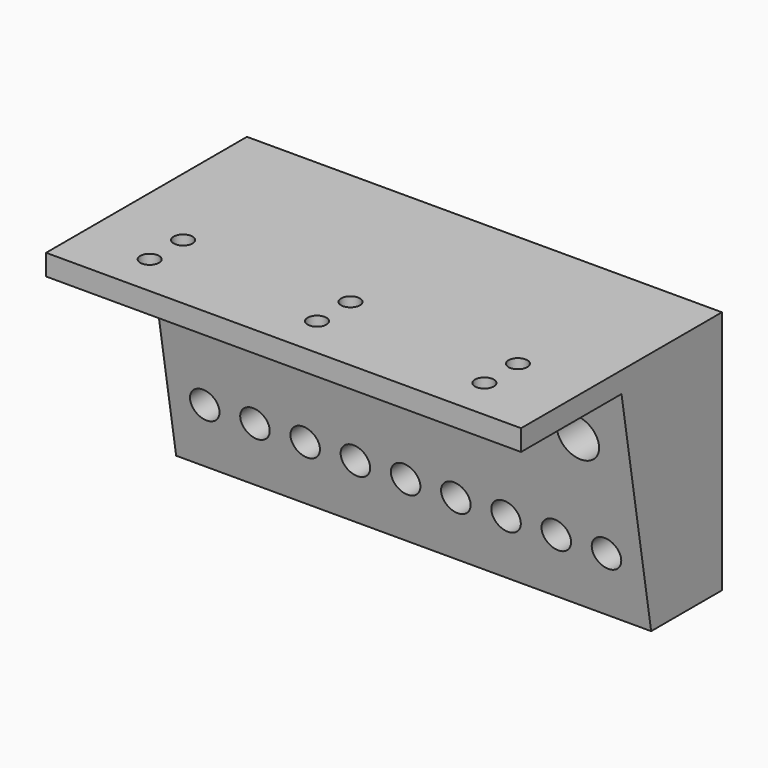
from build123d import *

# Parameters (mm, degrees)
F1_DEPTH = 25
F2_W     = 113.5
F2_H     = 53.5
F3_DEPTH = 5
F5_DEPTH = 133.9
F6_W     = 113.5
F6_H     = 60
F7_DEPTH = 5
F9_DEPTH = 25


with BuildPart() as f1:
    # F0 (on Front) → F1 (new body)
    with BuildSketch(Plane.XZ):
        with BuildLine():
            Line((30.7684078276, 51.75), (-82.7315921724, 51.75))
            Line((-82.7315921724, 51.75), (-82.7315921724, 37.7107225358))
            Line((-82.7315921724, 37.7107225358), (-75.4815921724, 37.7107225358))
            ThreePointArc((-75.4815921724, 37.7107225358), (-70.4815921724, 42.7107225358), (-65.4815921724, 37.7107225358))
            Line((-65.4815921724, 37.7107225358), (-60.4815921724, 37.7107225358))
            ThreePointArc((-60.4815921724, 37.7107225358), (-55.4815921724, 42.7107225358), (-50.4815921724, 37.7107225358))
            Line((-50.4815921724, 37.7107225358), (-46.4815921724, 37.7107225358))
            ThreePointArc((-46.4815921724, 37.7107225358), (-41.4815921724, 42.7107225358), (-36.4815921724, 37.7107225358))
            Line((-36.4815921724, 37.7107225358), (-31.4815921724, 37.7107225358))
            ThreePointArc((-31.4815921724, 37.7107225358), (-26.4815921724, 42.7107225358), (-21.4815921724, 37.7107225358))
            Line((-21.4815921724, 37.7107225358), (-16.4815921724, 37.7107225358))
            ThreePointArc((-16.4815921724, 37.7107225358), (-11.4815921724, 42.7107225358), (-6.4815921724, 37.7107225358))
            Line((-6.4815921724, 37.7107225358), (-1.4815921724, 37.7107225358))
            ThreePointArc((-1.4815921724, 37.7107225358), (3.5184078276, 42.7107225358), (8.5184078276, 37.7107225358))
            Line((8.5184078276, 37.7107225358), (13.5184078276, 37.7107225358))
            ThreePointArc((13.5184078276, 37.7107225358), (18.5184078276, 42.7107225358), (23.5184078276, 37.7107225358))
            Line((23.5184078276, 37.7107225358), (30.7684078276, 37.7107225358))
            Line((30.7684078276, 37.7107225358), (30.7684078276, 51.75))
        make_face()
        with BuildLine():
            Line((-77.4815921724, 12.7484267578), (-82.7315921724, 12.7484267578))
            Line((-82.7315921724, 12.7484267578), (-82.7315921724, -1.75))
            Line((-82.7315921724, -1.75), (30.7684078276, -1.75))
            Line((30.7684078276, -1.75), (30.7684078276, 12.7484267578))
            Line((30.7684078276, 12.7484267578), (25.5184078276, 12.7484267578))
            ThreePointArc((25.5184078276, 12.7484267578), (22.0184078276, 9.2484267578), (18.5184078276, 12.7484267578))
            Line((18.5184078276, 12.7484267578), (13.5184078276, 12.7484267578))
            ThreePointArc((13.5184078276, 12.7484267578), (10.0184078276, 9.2484267578), (6.5184078276, 12.7484267578))
            Line((6.5184078276, 12.7484267578), (1.5184078276, 12.7484267578))
            ThreePointArc((1.5184078276, 12.7484267578), (-1.9815921724, 9.2484267578), (-5.4815921724, 12.7484267578))
            Line((-5.4815921724, 12.7484267578), (-10.4815921724, 12.7484267578))
            ThreePointArc((-10.4815921724, 12.7484267578), (-13.9815921724, 9.2484267578), (-17.4815921724, 12.7484267578))
            Line((-17.4815921724, 12.7484267578), (-22.4815921724, 12.7484267578))
            ThreePointArc((-22.4815921724, 12.7484267578), (-25.9815921724, 9.2484267578), (-29.4815921724, 12.7484267578))
            Line((-29.4815921724, 12.7484267578), (-34.4815921724, 12.7484267578))
            ThreePointArc((-34.4815921724, 12.7484267578), (-37.9815921724, 9.2484267578), (-41.4815921724, 12.7484267578))
            Line((-41.4815921724, 12.7484267578), (-46.4815921724, 12.7484267578))
            ThreePointArc((-46.4815921724, 12.7484267578), (-49.9815921724, 9.2484267578), (-53.4815921724, 12.7484267578))
            Line((-53.4815921724, 12.7484267578), (-58.4815921724, 12.7484267578))
            ThreePointArc((-58.4815921724, 12.7484267578), (-61.9815921724, 9.2484267578), (-65.4815921724, 12.7484267578))
            Line((-65.4815921724, 12.7484267578), (-70.4815921724, 12.7484267578))
            ThreePointArc((-70.4815921724, 12.7484267578), (-73.9815921724, 9.2484267578), (-77.4815921724, 12.7484267578))
        make_face()
        with BuildLine():
            Line((-75.4815921724, 37.7107225358), (-82.7315921724, 37.7107225358))
            Line((-82.7315921724, 37.7107225358), (-82.7315921724, 12.7484267578))
            Line((-82.7315921724, 12.7484267578), (-77.4815921724, 12.7484267578))
            ThreePointArc((-77.4815921724, 12.7484267578), (-73.9815921724, 16.2484267578), (-70.4815921724, 12.7484267578))
            Line((-70.4815921724, 12.7484267578), (-65.4815921724, 12.7484267578))
            ThreePointArc((-65.4815921724, 12.7484267578), (-61.9815921724, 16.2484267578), (-58.4815921724, 12.7484267578))
            Line((-58.4815921724, 12.7484267578), (-53.4815921724, 12.7484267578))
            ThreePointArc((-53.4815921724, 12.7484267578), (-49.9815921724, 16.2484267578), (-46.4815921724, 12.7484267578))
            Line((-46.4815921724, 12.7484267578), (-41.4815921724, 12.7484267578))
            ThreePointArc((-41.4815921724, 12.7484267578), (-37.9815921724, 16.2484267578), (-34.4815921724, 12.7484267578))
            Line((-34.4815921724, 12.7484267578), (-29.4815921724, 12.7484267578))
            ThreePointArc((-29.4815921724, 12.7484267578), (-25.9815921724, 16.2484267578), (-22.4815921724, 12.7484267578))
            Line((-22.4815921724, 12.7484267578), (-17.4815921724, 12.7484267578))
            ThreePointArc((-17.4815921724, 12.7484267578), (-13.9815921724, 16.2484267578), (-10.4815921724, 12.7484267578))
            Line((-10.4815921724, 12.7484267578), (-5.4815921724, 12.7484267578))
            ThreePointArc((-5.4815921724, 12.7484267578), (-1.9815921724, 16.2484267578), (1.5184078276, 12.7484267578))
            Line((1.5184078276, 12.7484267578), (6.5184078276, 12.7484267578))
            ThreePointArc((6.5184078276, 12.7484267578), (10.0184078276, 16.2484267578), (13.5184078276, 12.7484267578))
            Line((13.5184078276, 12.7484267578), (18.5184078276, 12.7484267578))
            ThreePointArc((18.5184078276, 12.7484267578), (22.0184078276, 16.2484267578), (25.5184078276, 12.7484267578))
            Line((25.5184078276, 12.7484267578), (30.7684078276, 12.7484267578))
            Line((30.7684078276, 12.7484267578), (30.7684078276, 37.7107225358))
            Line((30.7684078276, 37.7107225358), (23.5184078276, 37.7107225358))
            ThreePointArc((23.5184078276, 37.7107225358), (18.5184078276, 32.7107225358), (13.5184078276, 37.7107225358))
            Line((13.5184078276, 37.7107225358), (8.5184078276, 37.7107225358))
            ThreePointArc((8.5184078276, 37.7107225358), (3.5184078276, 32.7107225358), (-1.4815921724, 37.7107225358))
            Line((-1.4815921724, 37.7107225358), (-6.4815921724, 37.7107225358))
            ThreePointArc((-6.4815921724, 37.7107225358), (-11.4815921724, 32.7107225358), (-16.4815921724, 37.7107225358))
            Line((-16.4815921724, 37.7107225358), (-21.4815921724, 37.7107225358))
            ThreePointArc((-21.4815921724, 37.7107225358), (-26.4815921724, 32.7107225358), (-31.4815921724, 37.7107225358))
            Line((-31.4815921724, 37.7107225358), (-36.4815921724, 37.7107225358))
            ThreePointArc((-36.4815921724, 37.7107225358), (-41.4815921724, 32.7107225358), (-46.4815921724, 37.7107225358))
            Line((-46.4815921724, 37.7107225358), (-50.4815921724, 37.7107225358))
            ThreePointArc((-50.4815921724, 37.7107225358), (-55.4815921724, 32.7107225358), (-60.4815921724, 37.7107225358))
            Line((-60.4815921724, 37.7107225358), (-65.4815921724, 37.7107225358))
            ThreePointArc((-65.4815921724, 37.7107225358), (-70.4815921724, 32.7107225358), (-75.4815921724, 37.7107225358))
        make_face()
    extrude(amount=F1_DEPTH)

    # F2 (on face) → F3 (join)
    with BuildSketch(Plane(origin=(0, 0, 0), x_dir=(-1, 0, 0), z_dir=(0, 1, 0))):
        with Locations((25.9815921724, 25)):
            Rectangle(F2_W, F2_H)
    extrude(amount=F3_DEPTH)

    # F4 (on face) → F5 (cut)
    with BuildSketch(Plane(origin=(-82.7315921724, 0, 0), x_dir=(0, -1, 0), z_dir=(-1, 0, 0))):
        Polygon((25, -1.75), (25, 51.75), (16.1387622356, -1.75), align=None)
    extrude(amount=-F5_DEPTH, mode=Mode.SUBTRACT)

    # F6 (on face) → F7 (join)
    with BuildSketch(Plane.XY.offset(51.75)):
        with Locations((-25.9815921724, -25)):
            Rectangle(F6_W, F6_H)
    extrude(amount=F7_DEPTH)

    # F8 (on face) → F9 (cut)
    with BuildSketch(Plane(origin=(0, 0, 51.75), x_dir=(1, 0, 0), z_dir=(0, 0, -1))):
        with BuildLine():
            ThreePointArc((-63.7315921724, 45), (-65.9815921724, 47.25), (-68.2315921724, 45))
            Line((-68.2315921724, 45), (-63.7315921724, 45))
        make_face()
        with BuildLine():
            ThreePointArc((16.2684078276, 45), (14.0184078276, 47.25), (11.7684078276, 45))
            Line((11.7684078276, 45), (16.2684078276, 45))
        make_face()
        with BuildLine():
            Line((16.2684078276, 45), (11.7684078276, 45))
            ThreePointArc((11.7684078276, 45), (14.0184078276, 42.75), (16.2684078276, 45))
        make_face()
        with BuildLine():
            ThreePointArc((-23.7315921724, 45), (-25.9815921724, 47.25), (-28.2315921724, 45))
            Line((-28.2315921724, 45), (-23.7315921724, 45))
        make_face()
        with BuildLine():
            Line((-23.7315921724, 45), (-28.2315921724, 45))
            ThreePointArc((-28.2315921724, 45), (-25.9815921724, 42.75), (-23.7315921724, 45))
        make_face()
        with BuildLine():
            Line((-63.7315921724, 45), (-68.2315921724, 45))
            ThreePointArc((-68.2315921724, 45), (-65.9815921724, 42.75), (-63.7315921724, 45))
        make_face()
        with BuildLine():
            ThreePointArc((-63.7315921724, 35), (-65.9815921724, 37.25), (-68.2315921724, 35))
            Line((-68.2315921724, 35), (-63.7315921724, 35))
        make_face()
        with BuildLine():
            ThreePointArc((16.2684078276, 35), (14.0184078276, 37.25), (11.7684078276, 35))
            Line((11.7684078276, 35), (16.2684078276, 35))
        make_face()
        with BuildLine():
            Line((16.2684078276, 35), (11.7684078276, 35))
            ThreePointArc((11.7684078276, 35), (14.0184078276, 32.75), (16.2684078276, 35))
        make_face()
        with BuildLine():
            ThreePointArc((-23.7315921724, 35), (-25.9815921724, 37.25), (-28.2315921724, 35))
            Line((-28.2315921724, 35), (-23.7315921724, 35))
        make_face()
        with BuildLine():
            Line((-23.7315921724, 35), (-28.2315921724, 35))
            ThreePointArc((-28.2315921724, 35), (-25.9815921724, 32.75), (-23.7315921724, 35))
        make_face()
        with BuildLine():
            Line((-63.7315921724, 35), (-68.2315921724, 35))
            ThreePointArc((-68.2315921724, 35), (-65.9815921724, 32.75), (-63.7315921724, 35))
        make_face()
    extrude(amount=-F9_DEPTH, mode=Mode.SUBTRACT)


solid = f1.part
